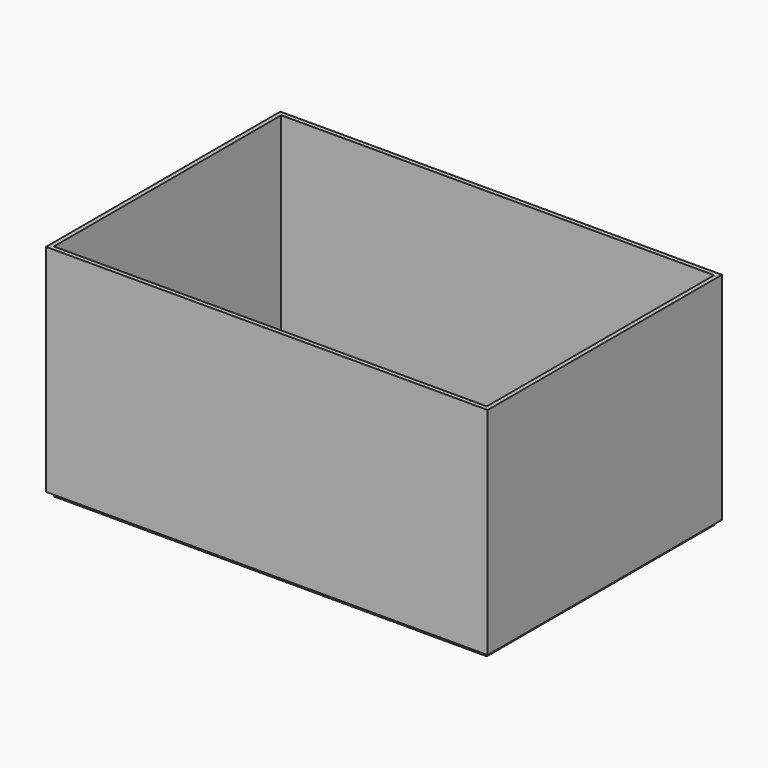
from build123d import *

# Parameters (mm, degrees)
F0_W     = 5017
F0_H     = 3293
F1_DEPTH = 50
F2_W     = 5117
F2_H     = 3393
F2_W_2   = 5017
F2_H_2   = 3293
F3_DEPTH = 2500


with BuildPart() as f1:
    # F0 (on Top) → F1 (new body)
    with BuildSketch(Plane.XY):
        with Locations((-2508.5, 1646.5)):
            Rectangle(F0_W, F0_H)
    extrude(amount=-F1_DEPTH)


with BuildPart() as f3:
    # F2 (on face) → F3 (new body)
    with BuildSketch(Plane.XY):
        with Locations((-2508.5, 1646.5)):
            Rectangle(F2_W, F2_H)
        with Locations((-2508.5, 1646.5)):
            Rectangle(F2_W_2, F2_H_2, mode=Mode.SUBTRACT)
    extrude(amount=F3_DEPTH)


solid = Compound([f1.part, f3.part])
